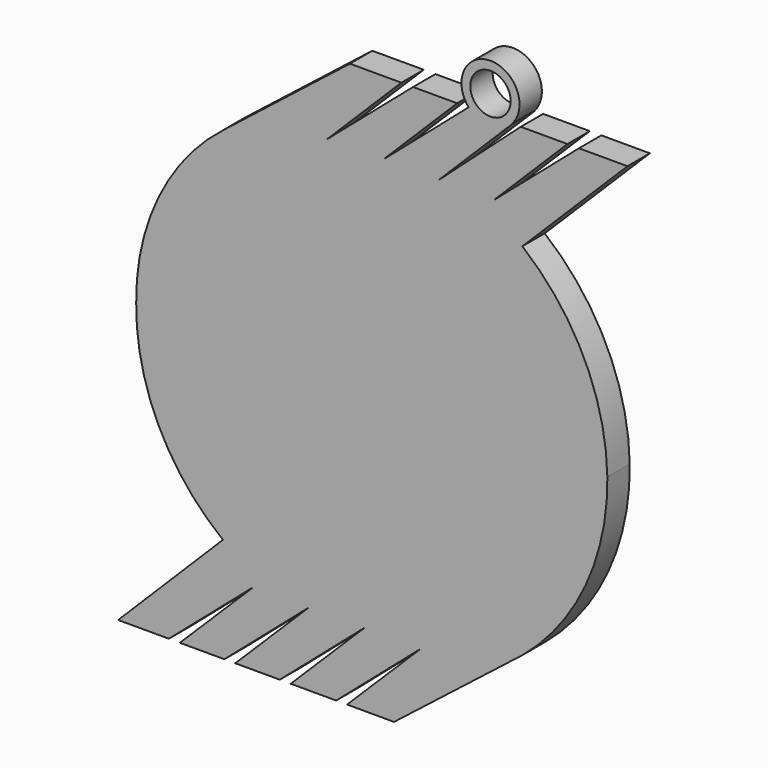
from build123d import *

# Parameters (mm, degrees)
F0_R     = 2.291319
F1_DEPTH = 3.175


with BuildPart() as f1:
    # F0 (on Front) → F1 (new body)
    with BuildSketch(Plane.XZ):
        with BuildLine():
            Line((2.42887, 27.417888), (-3.408971, 27.417888))
            Line((-3.408971, 27.417888), (-17.817384, 16.07928))
            ThreePointArc((-17.817384, 16.07928), (-25.137158, 6.999169), (-27.666417, -4.386364))
            ThreePointArc((-27.666417, -4.386364), (-25.140054, -15.767724), (-17.817384, -24.839458))
            Line((-17.817384, -24.839458), (-29.714837, -36.722033))
            Line((-29.714837, -36.722033), (-23.95565, -36.722033))
            Line((-23.95565, -36.722033), (-14.339792, -28.421288))
            Line((-14.339792, -28.421288), (-22.712222, -36.722033))
            Line((-22.712222, -36.722033), (-17.655194, -36.722033))
            Line((-17.655194, -36.722033), (-8.056328, -28.420344))
            Line((-8.056328, -28.420344), (-16.424194, -36.722033))
            Line((-16.424194, -36.722033), (-11.368304, -36.722033))
            Line((-11.368304, -36.722033), (-1.727521, -28.384091))
            Line((-1.727521, -28.384091), (-10.131928, -36.722033))
            Line((-10.131928, -36.722033), (-4.964177, -36.722033))
            Line((-4.964177, -36.722033), (4.634687, -28.420345))
            Line((4.634687, -28.420345), (-3.733177, -36.722033))
            Line((-3.733177, -36.722033), (1.601154, -36.722033))
            Line((1.601154, -36.722033), (16.160648, -25.319263))
            ThreePointArc((16.160648, -25.319263), (23.359739, -15.947422), (25.809285, -4.386364))
            ThreePointArc((25.809285, -4.386364), (23.18269, 6.63908), (16.160648, 15.535728))
            Line((16.160648, 15.535728), (28.093671, 27.417888))
            Line((28.093671, 27.417888), (22.58408, 27.417888))
            Line((22.58408, 27.417888), (12.874909, 19.050129))
            Line((12.874909, 19.050129), (21.278487, 27.417888))
            Line((21.278487, 27.417888), (15.97779, 27.417888))
            Line((15.97779, 27.417888), (6.647244, 19.050129))
            Line((6.647244, 19.050129), (15.050822, 27.417888))
            Line((15.050822, 27.417888), (15.005607, 27.417888))
            ThreePointArc((15.005607, 27.417888), (12.544089, 32.902522), (10.082572, 27.417888))
            Line((10.082572, 27.417888), (10.037356, 27.417888))
            Line((10.037356, 27.417888), (0.354299, 19.050129))
            Line((0.354299, 19.050129), (8.757877, 27.417888))
            Line((8.757877, 27.417888), (3.757466, 27.417888))
            Line((3.757466, 27.417888), (-5.974708, 19.050129))
            Line((-5.974708, 19.050129), (2.42887, 27.417888))
        make_face()
        with Locations((12.544089, 29.607837)):
            Circle(F0_R, mode=Mode.SUBTRACT)
    extrude(amount=F1_DEPTH)


solid = f1.part
